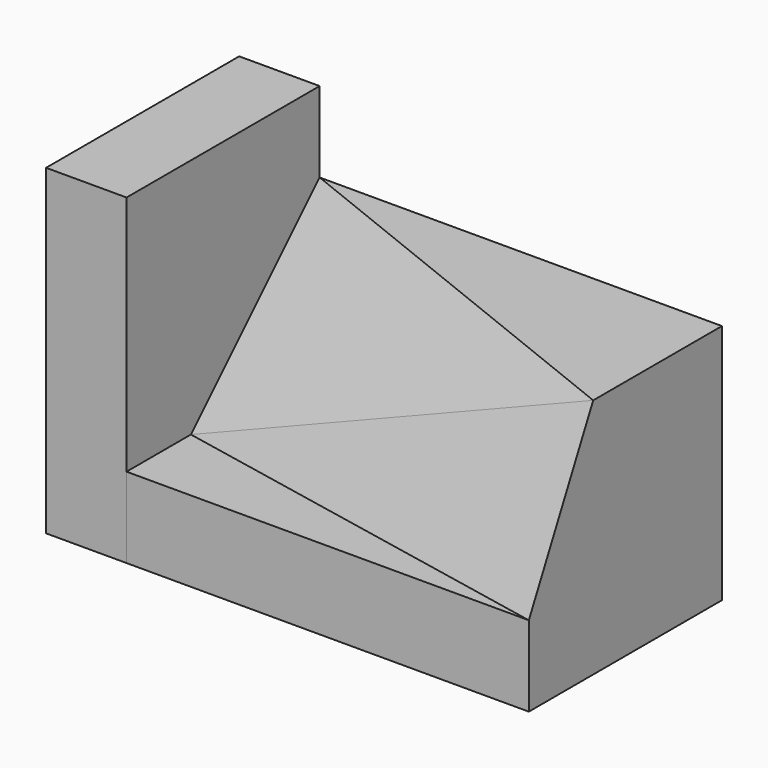
from build123d import *

# Parameters (mm, degrees)
F0_W      = 5
F0_H      = 3
F1_DEPTH  = 3
F3_DEPTH  = 2
F5_DEPTH  = 5
F8_DEPTH  = 25
F11_DEPTH = 25
F12_W     = 1
F12_H     = 3
F13_DEPTH = 4


with BuildPart() as f1:
    # F0 (on Front) → F1 (new body)
    with BuildSketch(Plane.XZ):
        with Locations((2.5, 1.5)):
            Rectangle(F0_W, F0_H)
    extrude(amount=F1_DEPTH)

    # F2 (on face) → F3 (cut)
    with BuildSketch(Plane.XY.offset(3)):
        Polygon((0, -2), (0, -3), (5, -3), align=None)
    extrude(amount=-F3_DEPTH, mode=Mode.SUBTRACT)

    # F4 (on face) → F5 (cut)
    with BuildSketch(Plane.YZ.offset(5)):
        Polygon((-2, 3), (-3, 3), (-3, 1), align=None)
    extrude(amount=-F5_DEPTH, mode=Mode.SUBTRACT)

    # F7 (on 3pt) → F8 (cut)
    with BuildSketch(Plane(origin=(-0.3875968992, -1.9379844961, 0.9689922481), x_dir=(-0.9843740387, 0.1574998462, -0.0787499231), z_dir=(0.1760901813, 0.8804509063, -0.4402254532))):
        Polygon((-5.4731196552, -0.4472135955), (-0.3937496155, 0), (0, 0.3081578172), (-5.4731196552, 1.788854382), align=None)
    extrude(amount=-F8_DEPTH, mode=Mode.SUBTRACT)

    # F10 (on 3pt) → F11 (cut)
    with BuildSketch(Plane(origin=(-0.5555555556, -1.3888888889, 1.3888888889), x_dir=(-0.9622504486, 0.1924500897, -0.1924500897), z_dir=(0.272165527, 0.6804138174, -0.6804138174))):
        Polygon((-0.5773502692, -0.7071067812), (-0.5773502692, 2.1213203436), (-5.7735026919, 0.7071067812), align=None)
    extrude(amount=-F11_DEPTH, mode=Mode.SUBTRACT)


with BuildPart() as f13:
    # F12 (on face) → F13 (new body)
    with BuildSketch(Plane(origin=(0, 0, 0), x_dir=(1, 0, 0), z_dir=(0, 0, -1))):
        with Locations((-0.5, 1.5)):
            Rectangle(F12_W, F12_H)
    extrude(amount=-F13_DEPTH)


solid = Compound([f1.part, f13.part])
